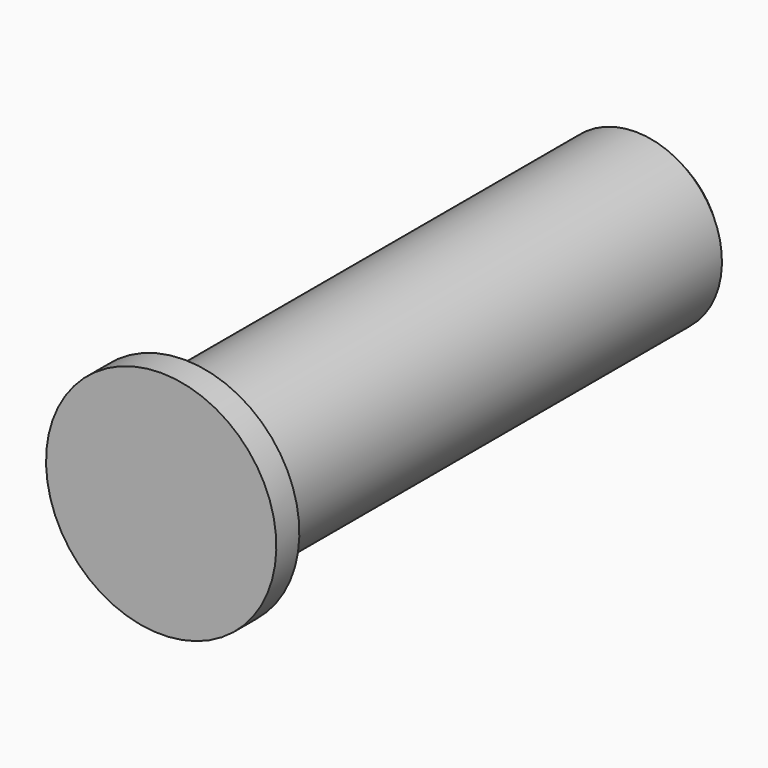
from build123d import *

# Parameters (mm, degrees)
F2_SIZE = 2


with BuildPart() as f1:
    # F0 (on Right) → F1 (revolve)
    with BuildSketch(Plane.YZ):
        Polygon((-5, 20), (-5, 0), (100, 0), (100, 15), (0, 15), (0, 20), align=None)
    revolve(axis=Axis((0, 28.515892, 0), (0, 1, 0)))

    # F2
    f2_edges = [f1.edges().sort_by_distance(p)[0] for p in [
        (0, 100, -15),
    ]]
    chamfer(f2_edges, length=F2_SIZE)


solid = f1.part
